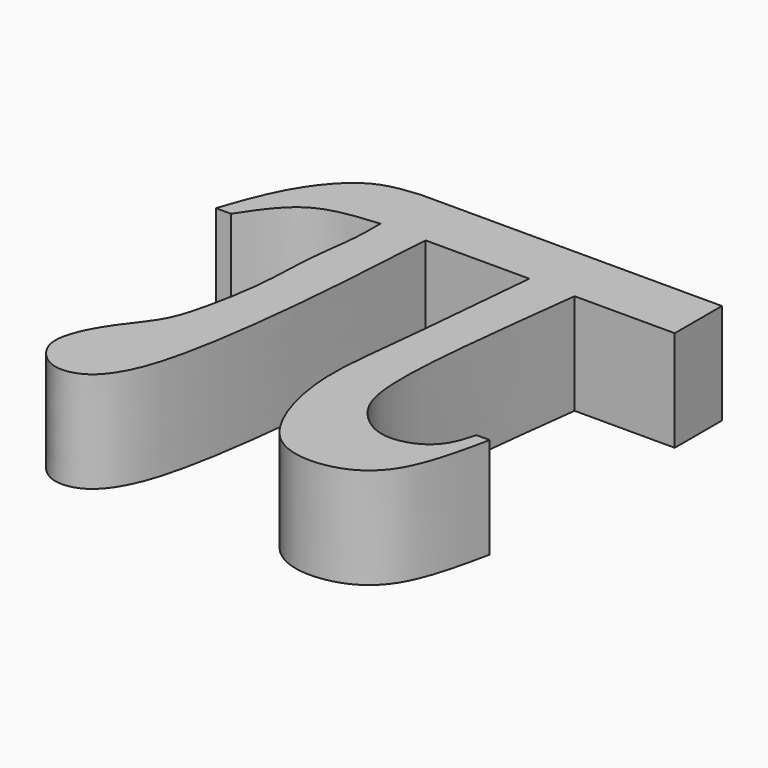
from build123d import *

# Parameters (mm, degrees)
F1_DEPTH = 12.7


with BuildPart() as f1:
    # F0 (on Top) → F1 (new body)
    with BuildSketch(Plane.XY):
        with BuildLine():
            Line((24.7585604258, 19.6908511134), (24.7585604258, 27.1141509143))
            Line((24.7585604258, 27.1141509143), (-13.1841597861, 27.1141509143))
            add(Edge.make_bspline(
                [(-13.1841597861, 27.1141509143), (-14.9946082371, 26.9418368364), (-18.8211088845, 26.5776398165), (-23.514688939, 21.3339840487), (-25.8466439217, 15.9778089298), (-26.6992870535, 13.4323978637), (-27.0781742681, 12.3012989632)],
                knots=[0, 0, 0, 0, 0.2505703752, 0.5295967982, 0.7909679299, 1, 1, 1, 1], degree=3))
            add(Edge.make_bspline(
                [(-25.1921828075, 12.3012989632), (-25.8208466277, 12.3012989632), (-26.4495104479, 12.3012989632), (-27.0781742681, 12.3012989632)],
                knots=[0, 0, 0, 0, 1.8859914605, 1.8859914605, 1.8859914605, 1.8859914605], degree=3))
            add(Edge.make_bspline(
                [(-12.3924212625, 19.8228069418), (-15.1507313891, 19.5954551642), (-20.6523963666, 19.141984287), (-23.6816654996, 14.5773913993), (-25.1921828075, 12.3012989632)],
                knots=[0, 0, 0, 0, 0.5013591591, 1, 1, 1, 1], degree=3))
            add(Edge.make_bspline(
                [(-6.7183006552, 19.8228069418), (-7.0960227248, 13.2671484807), (-7.8212896776, 0.6795799543), (-10.2565105207, -16.1993222365), (-13.0787877173, -21.8742713546), (-15.6672968331, -23.9626213225), (-19.2110251062, -24.2294457284), (-22.2410892526, -20.9112739142), (-21.6022019542, -16.963658645), (-19.095259242, -12.7916018447), (-16.0112650638, -9.3364771527), (-14.6654691279, -4.3687265936), (-13.3386531041, 2.6863113723), (-13.3892266986, 9.6933871915), (-12.3868633017, 15.3781893924), (-12.3906540703, 18.4096099841), (-12.3924212625, 19.8228069418)],
                knots=[0, 0, 0, 0, 0.1281471497, 0.2460562944, 0.3155395565, 0.3652136563, 0.4163661178, 0.4731024067, 0.5284237035, 0.5916915886, 0.6529405605, 0.7172613575, 0.7945174137, 0.8713052296, 0.9400046768, 1, 1, 1, 1], degree=3))
            Line((-6.7183006552, 19.8228069418), (6.3453734349, 19.8228069418))
            add(Edge.make_bspline(
                [(6.3453734349, 19.8228069418), (5.7088691931, 12.6966961866), (4.5893414281, 0.1627988107), (3.0966403319, -10.8938157233), (7.1805110859, -23.3612479492), (15.6428693687, -24.4140681653), (22.3412091911, -20.7644743831), (23.88461845, -13.5244286313), (24.7585604258, -9.4248161318)],
                knots=[0, 0, 0, 0, 0.2246753452, 0.3951745653, 0.5658466109, 0.7001179386, 0.830194409, 1, 1, 1, 1], degree=3))
            add(Edge.make_bspline(
                [(24.7585604258, -9.4248161318), (24.2069338065, -9.4248161318), (23.6553071871, -9.4248161318), (23.1036805677, -9.4248161318)],
                knots=[0, 0, 0, 0, 1.6548798581, 1.6548798581, 1.6548798581, 1.6548798581], degree=3))
            add(Edge.make_bspline(
                [(23.1036805677, -9.4248161318), (22.7982434721, -10.4974565471), (22.194532875, -12.6175801171), (19.7598976819, -14.8264126686), (15.5254659468, -15.6092500408), (11.7369558623, -12.9483095806), (9.1875146368, -8.0075607566), (10.5636931613, 6.8802545822), (11.6296129462, 15.4804768826), (12.1514507589, 19.6908511134)],
                knots=[0, 0, 0, 0, 0.1040086523, 0.2055779291, 0.3204573557, 0.4380693567, 0.5687790509, 0.7888889951, 1, 1, 1, 1], degree=3))
            Line((12.1514507589, 19.6908511134), (24.7585604258, 19.6908511134))
        make_face()
    extrude(amount=F1_DEPTH)


solid = f1.part
